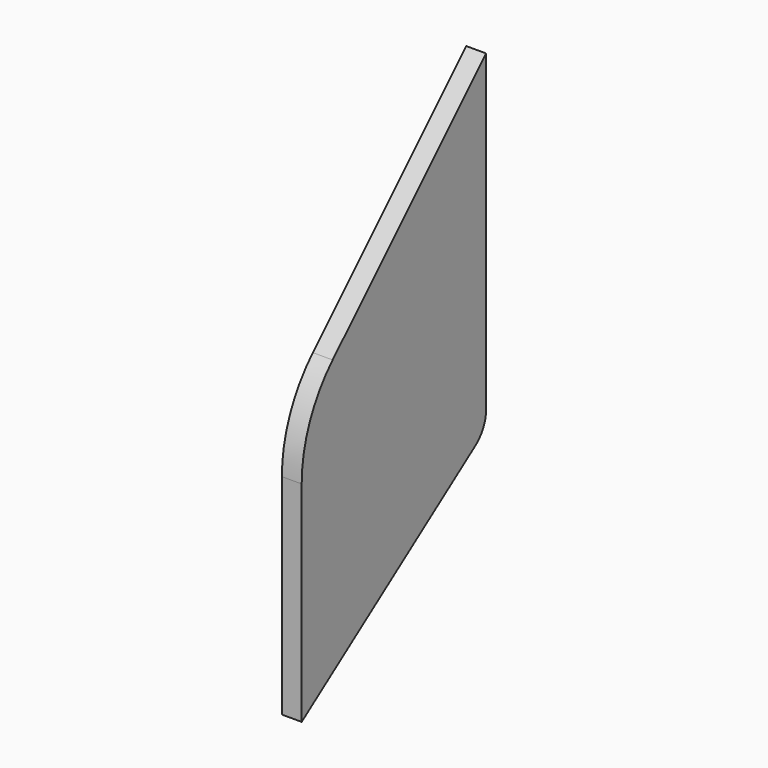
from build123d import *

# Parameters (mm, degrees)
PAD006_DEPTH            = 1.5
FILLET006_R             = 20
FILLET007_R             = 5
BODY007_PLACEMENT_ANGLE = 180


with BuildPart() as part:
    # Sketch011 → Pad006 (new body, symmetric)
    with BuildSketch(Plane.YZ):
        Polygon((27, -2.5), (61.9, -27.4), (61.9, 12.6), (27, 47.5), align=None)
    extrude(amount=PAD006_DEPTH, both=True)

    # Fillet006
    fillet006_edges = [part.edges().sort_by_distance(p)[0] for p in [
        (0, 61.9, 12.6),
    ]]
    fillet(fillet006_edges, radius=FILLET006_R)

    # Fillet007
    fillet007_edges = [part.edges().sort_by_distance(p)[0] for p in [
        (0, 27, -2.5),
    ]]
    fillet(fillet007_edges, radius=FILLET007_R)


with BuildPart() as part_1:
    # Body007 placement: moved
    add(part.part.moved(Location((0, -30, 0))).rotate(Axis((0, -30, 0), (0, 0, 1)), BODY007_PLACEMENT_ANGLE))


solid = part_1.part
